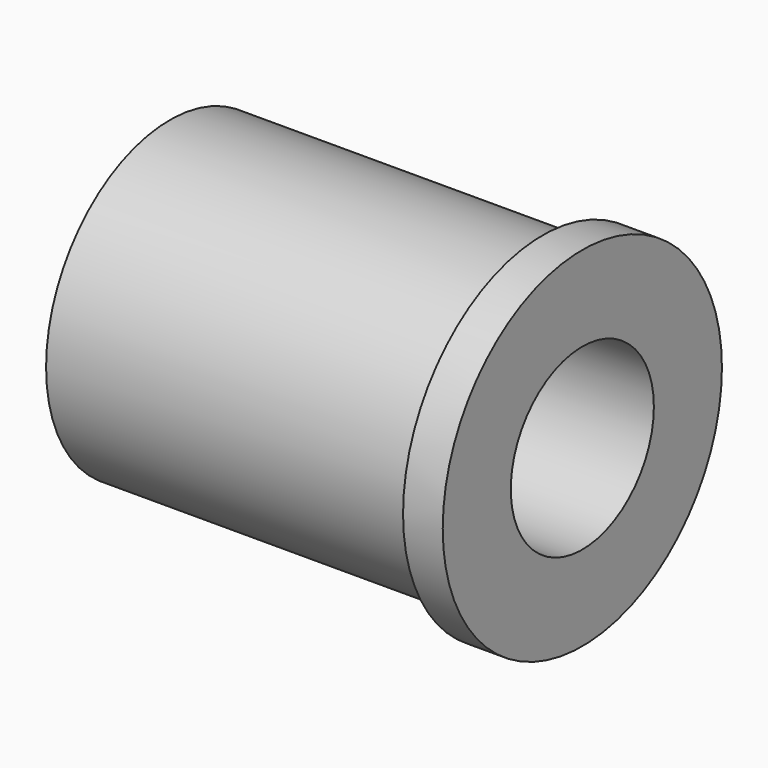
from build123d import *

# Parameters (mm, degrees)
F0_R     = 12.49
F1_DEPTH = 2.84
F2_R     = 8.99
F3_DEPTH = 0.12
F4_R     = 11.08
F5_DEPTH = 26.56
F6_R     = 6.4
F7_DEPTH = 29.56


with BuildPart() as f1:
    # F0 (on Right) → F1 (new body)
    with BuildSketch(Plane.YZ):
        Circle(F0_R)
    extrude(amount=F1_DEPTH)

    # F2 (on Right) → F3 (join)
    with BuildSketch(Plane.YZ):
        Circle(F2_R)
    extrude(amount=-F3_DEPTH)

    # F4 (on face) → F5 (join)
    with BuildSketch(Plane(origin=(-0.12, 0, 0), x_dir=(0, -1, 0), z_dir=(-1, 0, 0))):
        Circle(F4_R)
    extrude(amount=F5_DEPTH)

    # F6 (on face) → F7 (cut)
    with BuildSketch(Plane.YZ.offset(2.84)):
        Circle(F6_R)
    extrude(amount=-F7_DEPTH, mode=Mode.SUBTRACT)


solid = f1.part
